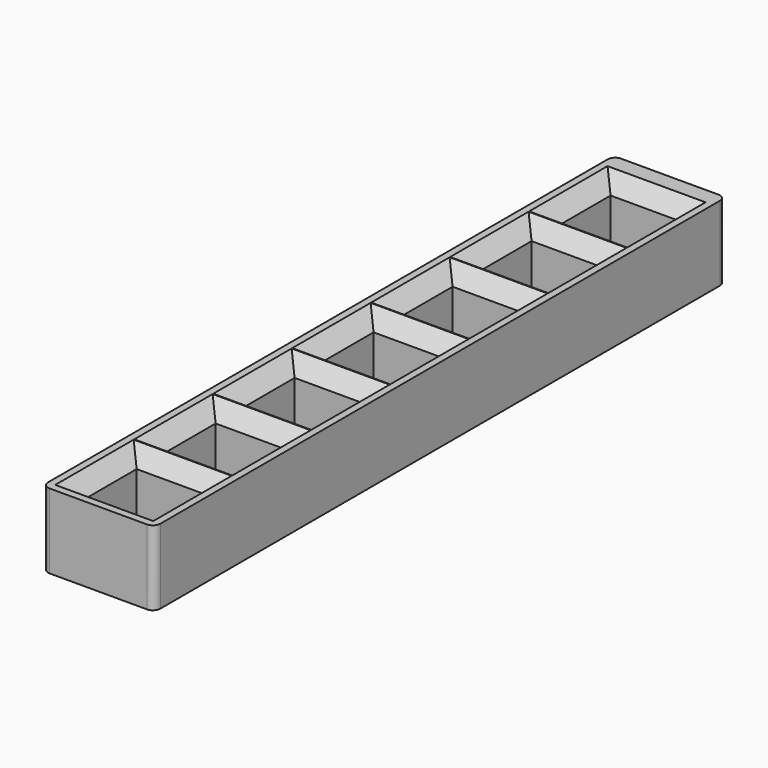
from build123d import *

# Parameters (mm, degrees)
SKETCH_W               = 15
SKETCH_H               = 95.5
PAD_DEPTH              = 10
SKETCH001_W            = 9.1
SKETCH001_H            = 9.1
POCKET_DEPTH           = 0.001
POCKET_DEPTH_BACK      = 10.001
LINEARPATTERN_COUNT    = 7
LINEARPATTERN_PITCH    = 13.2
SKETCH002_W            = 11.5
SKETCH002_H            = 11.5
POCKET001_DEPTH        = 1
LINEARPATTERN001_COUNT = 7
LINEARPATTERN001_PITCH = 13.2
CHAMFER_SIZE           = 2
FILLET_R               = 1


with BuildPart() as part:
    # Sketch → Pad (new body)
    with BuildSketch(Plane.XY):
        with Locations((7.5, 47.75)):
            Rectangle(SKETCH_W, SKETCH_H)
    extrude(amount=PAD_DEPTH)

    # Sketch001 → Pocket (cut, two sides)
    with BuildSketch(Plane.XY) as pocket_sk:
        with Locations((7.5, 7.55)):
            Rectangle(SKETCH001_W, SKETCH001_H)
    pocket = extrude(amount=-POCKET_DEPTH, mode=Mode.SUBTRACT) + extrude(pocket_sk.sketch, amount=POCKET_DEPTH_BACK, mode=Mode.SUBTRACT)

    # LinearPattern: Pocket ×7
    with Locations(*[(0, i * LINEARPATTERN_PITCH, 0) for i in range(1, LINEARPATTERN_COUNT)]):
        add(pocket, mode=Mode.SUBTRACT)

    # Sketch002 → Pocket001 (cut)
    with BuildSketch(Plane.XY):
        with Locations((7.5, 7.55)):
            Rectangle(SKETCH002_W, SKETCH002_H)
    pocket001 = extrude(amount=POCKET001_DEPTH, mode=Mode.SUBTRACT)

    # LinearPattern001: Pocket001 ×7
    with Locations(*[(0, i * LINEARPATTERN001_PITCH, 0) for i in range(1, LINEARPATTERN001_COUNT)]):
        add(pocket001, mode=Mode.SUBTRACT)

    # Chamfer
    chamfer_edges = [part.edges().sort_by_distance(p)[0] for p in [
        (12.05, 7.55, 10),
        (7.5, 3, 10),
        (2.95, 7.55, 10),
        (7.5, 12.1, 10),
        (2.95, 20.75, 10),
        (7.5, 16.2, 10),
        (7.5, 25.3, 10),
        (12.05, 20.75, 10),
        (7.5, 29.4, 10),
        (2.95, 33.95, 10),
        (7.5, 38.5, 10),
        (12.05, 33.95, 10),
        (7.5, 42.6, 10),
        (2.95, 47.15, 10),
        (7.5, 51.7, 10),
        (12.05, 47.15, 10),
        (2.95, 60.35, 10),
        (7.5, 55.8, 10),
        (7.5, 64.9, 10),
        (12.05, 60.35, 10),
        (7.5, 69, 10),
        (2.95, 73.55, 10),
        (7.5, 78.1, 10),
        (12.05, 73.55, 10),
        (7.5, 82.2, 10),
        (2.95, 86.75, 10),
        (7.5, 91.3, 10),
        (12.05, 86.75, 10),
    ]]
    chamfer(chamfer_edges, length=CHAMFER_SIZE)

    # Fillet
    fillet_edges = [part.edges().sort_by_distance(p)[0] for p in [
        (15, 0, 5),
        (0, 0, 5),
        (15, 95.5, 5),
        (0, 95.5, 5),
    ]]
    fillet(fillet_edges, radius=FILLET_R)


solid = part.part
